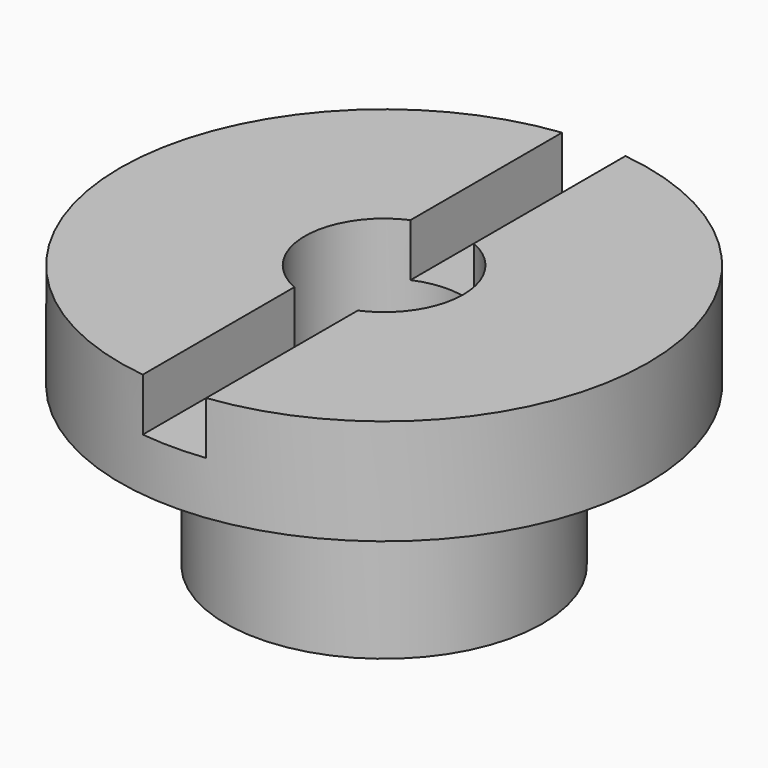
from build123d import *

# Parameters (mm, degrees)
F0_R     = 50
F1_DEPTH = 20
F2_W     = 12
F2_H     = 130.80296
F3_DEPTH = 10
F4_R     = 30
F5_DEPTH = 30
F7_W     = 3
F7_H     = 6
F8_DEPTH = 10
F6_R     = 15
F9_DEPTH = 50.001


with BuildPart() as f1:
    # F0 (on Top) → F1 (new body)
    with BuildSketch(Plane.XY):
        Circle(F0_R)
    extrude(amount=F1_DEPTH)

    # F2 (on face) → F3 (cut)
    with BuildSketch(Plane.XY.offset(20)):
        Rectangle(F2_W, F2_H)
    extrude(amount=-F3_DEPTH, mode=Mode.SUBTRACT)

    # F4 (on face) → F5 (join)
    with BuildSketch(Plane(origin=(0, 0, 0), x_dir=(1, 0, 0), z_dir=(0, 0, -1))):
        Circle(F4_R)
    extrude(amount=F5_DEPTH)

    # F7 (on face) → F8 (cut)
    with BuildSketch(Plane(origin=(0, 0, -30), x_dir=(1, 0, 0), z_dir=(0, 0, -1))):
        with Locations((15, 0)):
            Rectangle(F7_W, F7_H)
    extrude(amount=-F8_DEPTH, mode=Mode.SUBTRACT)

    # F6 (on face) → F9 (cut, through all)
    with BuildSketch(Plane(origin=(0, 0, -30), x_dir=(1, 0, 0), z_dir=(0, 0, -1))):
        Circle(F6_R)
    extrude(amount=-F9_DEPTH, mode=Mode.SUBTRACT)


solid = f1.part
